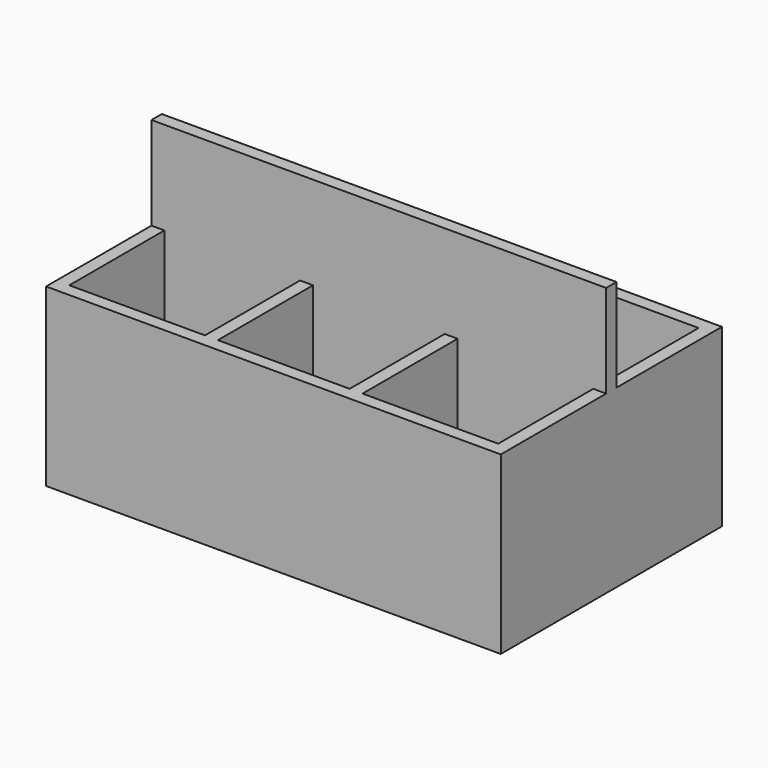
from build123d import *

# Parameters (mm, degrees)
F0_W     = 83.34375
F0_H     = 7.9375
F0_W_2   = 80.9625
F0_W_3   = 7.9375
F1_DEPTH = 165.1
F0_H_2   = 73.025
F2_DEPTH = 1.5875
F3_DEPTH = 107.95


with BuildPart() as f1:
    # F0 (on Top) → F1 (new body)
    with BuildSketch(Plane.XY):
        with Locations((-90.090625, 84.93125)):
            Rectangle(F0_W, F0_H)
        with Locations((0, 84.93125)):
            Rectangle(F0_W_2, F0_H)
        Polygon((-48.41875, 88.9), (-48.41875, 80.9625), (-40.48125, 80.9625), (-40.48125, 88.9), (-44.45, 88.9), align=None)
        with Locations((-135.73125, 84.93125)):
            Rectangle(F0_W_3, F0_H)
        Polygon((40.48125, 88.9), (40.48125, 80.9625), (48.41875, 80.9625), (48.41875, 88.9), (44.45, 88.9), align=None)
        with Locations((90.090625, 84.93125)):
            Rectangle(F0_W, F0_H)
        with Locations((135.73125, 84.93125)):
            Rectangle(F0_W_3, F0_H)
    extrude(amount=F1_DEPTH)


with BuildPart() as f2:
    # F0 (on Top) → F2 (new body)
    with BuildSketch(Plane.XY):
        with Locations((-90.090625, 44.45)):
            Rectangle(F0_W, F0_H_2)
    extrude(amount=F2_DEPTH)


with BuildPart() as f2b:
    # F0 (on Top) → F2, piece 2 (new body)
    with BuildSketch(Plane.XY):
        with Locations((0, 44.45)):
            Rectangle(F0_W_2, F0_H_2)
    extrude(amount=F2_DEPTH)


with BuildPart() as f2c:
    # F0 (on Top) → F2, piece 3 (new body)
    with BuildSketch(Plane.XY):
        with Locations((90.090625, 44.45)):
            Rectangle(F0_W, F0_H_2)
    extrude(amount=F2_DEPTH)


with BuildPart() as f3:
    # F0 (on Top) → F3 (new body)
    with BuildSketch(Plane.XY):
        Polygon((-48.41875, 88.9), (-48.41875, 80.9625), (-40.48125, 80.9625), (-40.48125, 88.9), (-44.45, 88.9), align=None)
        with Locations((-44.45, 44.45)):
            Rectangle(F0_W_3, F0_H_2)
        Polygon((-48.41875, 7.9375), (-48.41875, 0), (-44.45, 0), (-40.48125, 0), (-40.48125, 7.9375), align=None)
        Polygon((40.48125, 7.9375), (40.48125, 0), (44.45, 0), (48.41875, 0), (48.41875, 7.9375), align=None)
        with Locations((44.45, 44.45)):
            Rectangle(F0_W_3, F0_H_2)
        Polygon((40.48125, 88.9), (40.48125, 80.9625), (48.41875, 80.9625), (48.41875, 88.9), (44.45, 88.9), align=None)
        with Locations((135.73125, 44.45)):
            Rectangle(F0_W_3, F0_H_2)
        with Locations((-135.73125, 44.45)):
            Rectangle(F0_W_3, F0_H_2)
        with Locations((-90.090625, 3.96875)):
            Rectangle(F0_W, F0_H)
        Polygon((-139.7, 5.3547988646), (-139.7, 0), (-131.7625, 0), (-131.7625, 7.9375), (-139.7, 7.9375), align=None)
        with Locations((-135.73125, 84.93125)):
            Rectangle(F0_W_3, F0_H)
        with Locations((-90.090625, 84.93125)):
            Rectangle(F0_W, F0_H)
        with Locations((0, 84.93125)):
            Rectangle(F0_W_2, F0_H)
        with Locations((0, 3.96875)):
            Rectangle(F0_W_2, F0_H)
        with Locations((90.090625, 3.96875)):
            Rectangle(F0_W, F0_H)
        with Locations((135.73125, 3.96875)):
            Rectangle(F0_W_3, F0_H)
        with Locations((135.73125, 84.93125)):
            Rectangle(F0_W_3, F0_H)
        with Locations((90.090625, 84.93125)):
            Rectangle(F0_W, F0_H)
    extrude(amount=F3_DEPTH)


with BuildPart() as f1_1:
    add(f1.part)

    # F4: union F2c, F2, F3, F2b
    add(f2c.part)
    add(f2.part)
    add(f3.part)
    add(f2b.part)

    # F6: F1 across plane


with BuildPart() as f1_2:
    add(f1_1.part)
    add(f1_1.part.mirror(Plane.XZ.offset(-84.93125)))


solid = f1_2.part
